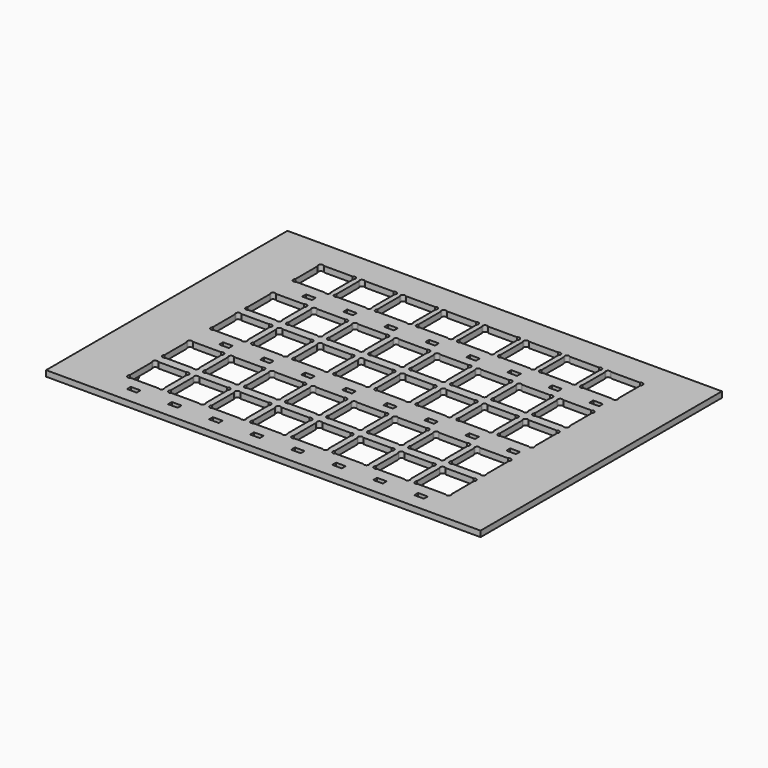
from build123d import *

# Parameters (mm, degrees)
F0_W     = 45
F0_H     = 31.25
F0_W_2   = 1
F0_H_2   = 0.5
F0_R     = 1.5
F0_W_3   = 0.6
F0_H_3   = 10
F1_DEPTH = 0.6
F2_DEPTH = 1
F3_DEPTH = 0.2


with BuildPart() as f1:
    # F0 (on Top) → F1 (new body)
    with BuildSketch(Plane.XY):
        Rectangle(F0_W, F0_H)
        with Locations((-14.820037, -13.875)):
            Rectangle(F0_W_2, F0_H_2, mode=Mode.SUBTRACT)
        with Locations((-19, -10.375)):
            Circle(F0_R, mode=Mode.SUBTRACT)
        with BuildLine():
            ThreePointArc((-13.075, -12.071447), (-13.075, -12.425), (-13.428553, -12.425))
            Line((-13.428553, -12.425), (-16.321447, -12.425))
            ThreePointArc((-16.321447, -12.425), (-16.675, -12.425), (-16.675, -12.071447))
            Line((-16.675, -12.071447), (-16.675, -9.178553))
            ThreePointArc((-16.675, -9.178553), (-16.675, -8.825), (-16.321447, -8.825))
            Line((-16.321447, -8.825), (-13.428553, -8.825))
            ThreePointArc((-13.428553, -8.825), (-13.075, -8.825), (-13.075, -9.178553))
            Line((-13.075, -9.178553), (-13.075, -12.071447))
        make_face(mode=Mode.SUBTRACT)
        with Locations((-10.570037, -13.875)):
            Rectangle(F0_W_2, F0_H_2, mode=Mode.SUBTRACT)
        with Locations((-6.320037, -13.875)):
            Rectangle(F0_W_2, F0_H_2, mode=Mode.SUBTRACT)
        with Locations((-2.070037, -13.875)):
            Rectangle(F0_W_2, F0_H_2, mode=Mode.SUBTRACT)
        with BuildLine():
            ThreePointArc((-8.825, -12.071447), (-8.825, -12.425), (-9.178553, -12.425))
            Line((-9.178553, -12.425), (-12.071447, -12.425))
            ThreePointArc((-12.071447, -12.425), (-12.425, -12.425), (-12.425, -12.071447))
            Line((-12.425, -12.071447), (-12.425, -9.178553))
            ThreePointArc((-12.425, -9.178553), (-12.425, -8.825), (-12.071447, -8.825))
            Line((-12.071447, -8.825), (-9.178553, -8.825))
            ThreePointArc((-9.178553, -8.825), (-8.825, -8.825), (-8.825, -9.178553))
            Line((-8.825, -9.178553), (-8.825, -12.071447))
        make_face(mode=Mode.SUBTRACT)
        with BuildLine():
            ThreePointArc((-4.575, -12.071447), (-4.575, -12.425), (-4.928553, -12.425))
            Line((-4.928553, -12.425), (-7.821447, -12.425))
            ThreePointArc((-7.821447, -12.425), (-8.175, -12.425), (-8.175, -12.071447))
            Line((-8.175, -12.071447), (-8.175, -9.178553))
            ThreePointArc((-8.175, -9.178553), (-8.175, -8.825), (-7.821447, -8.825))
            Line((-7.821447, -8.825), (-4.928553, -8.825))
            ThreePointArc((-4.928553, -8.825), (-4.575, -8.825), (-4.575, -9.178553))
            Line((-4.575, -9.178553), (-4.575, -12.071447))
        make_face(mode=Mode.SUBTRACT)
        with BuildLine():
            ThreePointArc((-0.325, -12.071447), (-0.325, -12.425), (-0.678553, -12.425))
            Line((-0.678553, -12.425), (-3.571447, -12.425))
            ThreePointArc((-3.571447, -12.425), (-3.925, -12.425), (-3.925, -12.071447))
            Line((-3.925, -12.071447), (-3.925, -9.178553))
            ThreePointArc((-3.925, -9.178553), (-3.925, -8.825), (-3.571447, -8.825))
            Line((-3.571447, -8.825), (-0.678553, -8.825))
            ThreePointArc((-0.678553, -8.825), (-0.325, -8.825), (-0.325, -9.178553))
            Line((-0.325, -9.178553), (-0.325, -12.071447))
        make_face(mode=Mode.SUBTRACT)
        with BuildLine():
            Line((-16.321447, -4.325), (-13.428553, -4.325))
            ThreePointArc((-13.428553, -4.325), (-13.075, -4.325), (-13.075, -4.678553))
            Line((-13.075, -4.678553), (-13.075, -7.571447))
            ThreePointArc((-13.075, -7.571447), (-13.075, -7.925), (-13.428553, -7.925))
            Line((-13.428553, -7.925), (-16.321447, -7.925))
            ThreePointArc((-16.321447, -7.925), (-16.675, -7.925), (-16.675, -7.571447))
            Line((-16.675, -7.571447), (-16.675, -4.678553))
            ThreePointArc((-16.675, -4.678553), (-16.675, -4.325), (-16.321447, -4.325))
        make_face(mode=Mode.SUBTRACT)
        with Locations((-13.875, -3.125)):
            Rectangle(F0_W_2, F0_H_2, mode=Mode.SUBTRACT)
        with BuildLine():
            ThreePointArc((-12.071447, -7.925), (-12.425, -7.925), (-12.425, -7.571447))
            Line((-12.425, -7.571447), (-12.425, -4.678553))
            ThreePointArc((-12.425, -4.678553), (-12.425, -4.325), (-12.071447, -4.325))
            Line((-12.071447, -4.325), (-9.178553, -4.325))
            ThreePointArc((-9.178553, -4.325), (-8.825, -4.325), (-8.825, -4.678553))
            Line((-8.825, -4.678553), (-8.825, -7.571447))
            ThreePointArc((-8.825, -7.571447), (-8.825, -7.925), (-9.178553, -7.925))
            Line((-9.178553, -7.925), (-12.071447, -7.925))
        make_face(mode=Mode.SUBTRACT)
        with BuildLine():
            Line((-4.575, -4.678553), (-4.575, -7.571447))
            ThreePointArc((-4.575, -7.571447), (-4.575, -7.925), (-4.928553, -7.925))
            Line((-4.928553, -7.925), (-7.821447, -7.925))
            ThreePointArc((-7.821447, -7.925), (-8.175, -7.925), (-8.175, -7.571447))
            Line((-8.175, -7.571447), (-8.175, -4.678553))
            ThreePointArc((-8.175, -4.678553), (-8.175, -4.325), (-7.821447, -4.325))
            Line((-7.821447, -4.325), (-4.928553, -4.325))
            ThreePointArc((-4.928553, -4.325), (-4.575, -4.325), (-4.575, -4.678553))
        make_face(mode=Mode.SUBTRACT)
        with BuildLine():
            ThreePointArc((-3.571447, -7.925), (-3.925, -7.925), (-3.925, -7.571447))
            Line((-3.925, -7.571447), (-3.925, -4.678553))
            ThreePointArc((-3.925, -4.678553), (-3.925, -4.325), (-3.571447, -4.325))
            Line((-3.571447, -4.325), (-0.678553, -4.325))
            ThreePointArc((-0.678553, -4.325), (-0.325, -4.325), (-0.325, -4.678553))
            Line((-0.325, -4.678553), (-0.325, -7.571447))
            ThreePointArc((-0.325, -7.571447), (-0.325, -7.925), (-0.678553, -7.925))
            Line((-0.678553, -7.925), (-3.571447, -7.925))
        make_face(mode=Mode.SUBTRACT)
        with Locations((-9.625, -3.125)):
            Rectangle(F0_W_2, F0_H_2, mode=Mode.SUBTRACT)
        with Locations((-5.375, -3.125)):
            Rectangle(F0_W_2, F0_H_2, mode=Mode.SUBTRACT)
        with Locations((-1.125, -3.125)):
            Rectangle(F0_W_2, F0_H_2, mode=Mode.SUBTRACT)
        with Locations((2.179963, -13.875)):
            Rectangle(F0_W_2, F0_H_2, mode=Mode.SUBTRACT)
        with Locations((6.429963, -13.875)):
            Rectangle(F0_W_2, F0_H_2, mode=Mode.SUBTRACT)
        with Locations((10.679963, -13.875)):
            Rectangle(F0_W_2, F0_H_2, mode=Mode.SUBTRACT)
        with BuildLine():
            ThreePointArc((3.925, -12.071447), (3.925, -12.425), (3.571447, -12.425))
            Line((3.571447, -12.425), (0.678553, -12.425))
            ThreePointArc((0.678553, -12.425), (0.325, -12.425), (0.325, -12.071447))
            Line((0.325, -12.071447), (0.325, -9.178553))
            ThreePointArc((0.325, -9.178553), (0.325, -8.825), (0.678553, -8.825))
            Line((0.678553, -8.825), (3.571447, -8.825))
            ThreePointArc((3.571447, -8.825), (3.925, -8.825), (3.925, -9.178553))
            Line((3.925, -9.178553), (3.925, -12.071447))
        make_face(mode=Mode.SUBTRACT)
        with BuildLine():
            Line((8.175, -9.178553), (8.175, -12.071447))
            ThreePointArc((8.175, -12.071447), (8.175, -12.425), (7.821447, -12.425))
            Line((7.821447, -12.425), (4.928553, -12.425))
            ThreePointArc((4.928553, -12.425), (4.575, -12.425), (4.575, -12.071447))
            Line((4.575, -12.071447), (4.575, -9.178553))
            ThreePointArc((4.575, -9.178553), (4.575, -8.825), (4.928553, -8.825))
            Line((4.928553, -8.825), (7.821447, -8.825))
            ThreePointArc((7.821447, -8.825), (8.175, -8.825), (8.175, -9.178553))
        make_face(mode=Mode.SUBTRACT)
        with BuildLine():
            ThreePointArc((12.425, -12.071447), (12.425, -12.425), (12.071447, -12.425))
            Line((12.071447, -12.425), (9.178553, -12.425))
            ThreePointArc((9.178553, -12.425), (8.825, -12.425), (8.825, -12.071447))
            Line((8.825, -12.071447), (8.825, -9.178553))
            ThreePointArc((8.825, -9.178553), (8.825, -8.825), (9.178553, -8.825))
            Line((9.178553, -8.825), (12.071447, -8.825))
            ThreePointArc((12.071447, -8.825), (12.425, -8.825), (12.425, -9.178553))
            Line((12.425, -9.178553), (12.425, -12.071447))
        make_face(mode=Mode.SUBTRACT)
        with Locations((14.929963, -13.875)):
            Rectangle(F0_W_2, F0_H_2, mode=Mode.SUBTRACT)
        with BuildLine():
            ThreePointArc((16.675, -12.071447), (16.675, -12.425), (16.321447, -12.425))
            Line((16.321447, -12.425), (13.428553, -12.425))
            ThreePointArc((13.428553, -12.425), (13.075, -12.425), (13.075, -12.071447))
            Line((13.075, -12.071447), (13.075, -9.178553))
            ThreePointArc((13.075, -9.178553), (13.075, -8.825), (13.428553, -8.825))
            Line((13.428553, -8.825), (16.321447, -8.825))
            ThreePointArc((16.321447, -8.825), (16.675, -8.825), (16.675, -9.178553))
            Line((16.675, -9.178553), (16.675, -12.071447))
        make_face(mode=Mode.SUBTRACT)
        with Locations((19, -10.375)):
            Circle(F0_R, mode=Mode.SUBTRACT)
        with BuildLine():
            Line((3.925, -4.678553), (3.925, -7.571447))
            ThreePointArc((3.925, -7.571447), (3.925, -7.925), (3.571447, -7.925))
            Line((3.571447, -7.925), (0.678553, -7.925))
            ThreePointArc((0.678553, -7.925), (0.325, -7.925), (0.325, -7.571447))
            Line((0.325, -7.571447), (0.325, -4.678553))
            ThreePointArc((0.325, -4.678553), (0.325, -4.325), (0.678553, -4.325))
            Line((0.678553, -4.325), (3.571447, -4.325))
            ThreePointArc((3.571447, -4.325), (3.925, -4.325), (3.925, -4.678553))
        make_face(mode=Mode.SUBTRACT)
        with BuildLine():
            Line((8.175, -4.678553), (8.175, -7.571447))
            ThreePointArc((8.175, -7.571447), (8.175, -7.925), (7.821447, -7.925))
            Line((7.821447, -7.925), (4.928553, -7.925))
            ThreePointArc((4.928553, -7.925), (4.575, -7.925), (4.575, -7.571447))
            Line((4.575, -7.571447), (4.575, -4.678553))
            ThreePointArc((4.575, -4.678553), (4.575, -4.325), (4.928553, -4.325))
            Line((4.928553, -4.325), (7.821447, -4.325))
            ThreePointArc((7.821447, -4.325), (8.175, -4.325), (8.175, -4.678553))
        make_face(mode=Mode.SUBTRACT)
        with BuildLine():
            Line((9.178553, -4.325), (12.071447, -4.325))
            ThreePointArc((12.071447, -4.325), (12.425, -4.325), (12.425, -4.678553))
            Line((12.425, -4.678553), (12.425, -7.571447))
            ThreePointArc((12.425, -7.571447), (12.425, -7.925), (12.071447, -7.925))
            Line((12.071447, -7.925), (9.178553, -7.925))
            ThreePointArc((9.178553, -7.925), (8.825, -7.925), (8.825, -7.571447))
            Line((8.825, -7.571447), (8.825, -4.678553))
            ThreePointArc((8.825, -4.678553), (8.825, -4.325), (9.178553, -4.325))
        make_face(mode=Mode.SUBTRACT)
        with Locations((3.125, -3.125)):
            Rectangle(F0_W_2, F0_H_2, mode=Mode.SUBTRACT)
        with Locations((7.375, -3.125)):
            Rectangle(F0_W_2, F0_H_2, mode=Mode.SUBTRACT)
        with BuildLine():
            ThreePointArc((16.675, -7.571447), (16.675, -7.925), (16.321447, -7.925))
            Line((16.321447, -7.925), (13.428553, -7.925))
            ThreePointArc((13.428553, -7.925), (13.075, -7.925), (13.075, -7.571447))
            Line((13.075, -7.571447), (13.075, -4.678553))
            ThreePointArc((13.075, -4.678553), (13.075, -4.325), (13.428553, -4.325))
            Line((13.428553, -4.325), (16.321447, -4.325))
            ThreePointArc((16.321447, -4.325), (16.675, -4.325), (16.675, -4.678553))
            Line((16.675, -4.678553), (16.675, -7.571447))
        make_face(mode=Mode.SUBTRACT)
        with Locations((11.625, -3.125)):
            Rectangle(F0_W_2, F0_H_2, mode=Mode.SUBTRACT)
        with Locations((15.875, -3.125)):
            Rectangle(F0_W_2, F0_H_2, mode=Mode.SUBTRACT)
        with Locations((-19, 0)):
            Rectangle(F0_W_3, F0_H_3, mode=Mode.SUBTRACT)
        with BuildLine():
            ThreePointArc((-13.075, -1.321447), (-13.075, -1.675), (-13.428553, -1.675))
            Line((-13.428553, -1.675), (-16.321447, -1.675))
            ThreePointArc((-16.321447, -1.675), (-16.675, -1.675), (-16.675, -1.321447))
            Line((-16.675, -1.321447), (-16.675, 1.571447))
            ThreePointArc((-16.675, 1.571447), (-16.675, 1.925), (-16.321447, 1.925))
            Line((-16.321447, 1.925), (-13.428553, 1.925))
            ThreePointArc((-13.428553, 1.925), (-13.075, 1.925), (-13.075, 1.571447))
            Line((-13.075, 1.571447), (-13.075, -1.321447))
        make_face(mode=Mode.SUBTRACT)
        with BuildLine():
            ThreePointArc((-13.075, 3.178553), (-13.075, 2.825), (-13.428553, 2.825))
            Line((-13.428553, 2.825), (-16.321447, 2.825))
            ThreePointArc((-16.321447, 2.825), (-16.675, 2.825), (-16.675, 3.178553))
            Line((-16.675, 3.178553), (-16.675, 6.071447))
            ThreePointArc((-16.675, 6.071447), (-16.675, 6.425), (-16.321447, 6.425))
            Line((-16.321447, 6.425), (-13.428553, 6.425))
            ThreePointArc((-13.428553, 6.425), (-13.075, 6.425), (-13.075, 6.071447))
            Line((-13.075, 6.071447), (-13.075, 3.178553))
        make_face(mode=Mode.SUBTRACT)
        with Locations((-13.875, 7.625)):
            Rectangle(F0_W_2, F0_H_2, mode=Mode.SUBTRACT)
        with BuildLine():
            ThreePointArc((-8.825, -1.321447), (-8.825, -1.675), (-9.178553, -1.675))
            Line((-9.178553, -1.675), (-12.071447, -1.675))
            ThreePointArc((-12.071447, -1.675), (-12.425, -1.675), (-12.425, -1.321447))
            Line((-12.425, -1.321447), (-12.425, 1.571447))
            ThreePointArc((-12.425, 1.571447), (-12.425, 1.925), (-12.071447, 1.925))
            Line((-12.071447, 1.925), (-9.178553, 1.925))
            ThreePointArc((-9.178553, 1.925), (-8.825, 1.925), (-8.825, 1.571447))
            Line((-8.825, 1.571447), (-8.825, -1.321447))
        make_face(mode=Mode.SUBTRACT)
        with BuildLine():
            ThreePointArc((-4.575, -1.321447), (-4.575, -1.675), (-4.928553, -1.675))
            Line((-4.928553, -1.675), (-7.821447, -1.675))
            ThreePointArc((-7.821447, -1.675), (-8.175, -1.675), (-8.175, -1.321447))
            Line((-8.175, -1.321447), (-8.175, 1.571447))
            ThreePointArc((-8.175, 1.571447), (-8.175, 1.925), (-7.821447, 1.925))
            Line((-7.821447, 1.925), (-4.928553, 1.925))
            ThreePointArc((-4.928553, 1.925), (-4.575, 1.925), (-4.575, 1.571447))
            Line((-4.575, 1.571447), (-4.575, -1.321447))
        make_face(mode=Mode.SUBTRACT)
        with BuildLine():
            ThreePointArc((-0.325, -1.321447), (-0.325, -1.675), (-0.678553, -1.675))
            Line((-0.678553, -1.675), (-3.571447, -1.675))
            ThreePointArc((-3.571447, -1.675), (-3.925, -1.675), (-3.925, -1.321447))
            Line((-3.925, -1.321447), (-3.925, 1.571447))
            ThreePointArc((-3.925, 1.571447), (-3.925, 1.925), (-3.571447, 1.925))
            Line((-3.571447, 1.925), (-0.678553, 1.925))
            ThreePointArc((-0.678553, 1.925), (-0.325, 1.925), (-0.325, 1.571447))
            Line((-0.325, 1.571447), (-0.325, -1.321447))
        make_face(mode=Mode.SUBTRACT)
        with BuildLine():
            ThreePointArc((-12.071447, 2.825), (-12.425, 2.825), (-12.425, 3.178553))
            Line((-12.425, 3.178553), (-12.425, 6.071447))
            ThreePointArc((-12.425, 6.071447), (-12.425, 6.425), (-12.071447, 6.425))
            Line((-12.071447, 6.425), (-9.178553, 6.425))
            ThreePointArc((-9.178553, 6.425), (-8.825, 6.425), (-8.825, 6.071447))
            Line((-8.825, 6.071447), (-8.825, 3.178553))
            ThreePointArc((-8.825, 3.178553), (-8.825, 2.825), (-9.178553, 2.825))
            Line((-9.178553, 2.825), (-12.071447, 2.825))
        make_face(mode=Mode.SUBTRACT)
        with BuildLine():
            ThreePointArc((-4.575, 3.178553), (-4.575, 2.825), (-4.928553, 2.825))
            Line((-4.928553, 2.825), (-7.821447, 2.825))
            ThreePointArc((-7.821447, 2.825), (-8.175, 2.825), (-8.175, 3.178553))
            Line((-8.175, 3.178553), (-8.175, 6.071447))
            ThreePointArc((-8.175, 6.071447), (-8.175, 6.425), (-7.821447, 6.425))
            Line((-7.821447, 6.425), (-4.928553, 6.425))
            ThreePointArc((-4.928553, 6.425), (-4.575, 6.425), (-4.575, 6.071447))
            Line((-4.575, 6.071447), (-4.575, 3.178553))
        make_face(mode=Mode.SUBTRACT)
        with Locations((-9.625, 7.625)):
            Rectangle(F0_W_2, F0_H_2, mode=Mode.SUBTRACT)
        with BuildLine():
            ThreePointArc((-0.325, 3.178553), (-0.325, 2.825), (-0.678553, 2.825))
            Line((-0.678553, 2.825), (-3.571447, 2.825))
            ThreePointArc((-3.571447, 2.825), (-3.925, 2.825), (-3.925, 3.178553))
            Line((-3.925, 3.178553), (-3.925, 6.071447))
            ThreePointArc((-3.925, 6.071447), (-3.925, 6.425), (-3.571447, 6.425))
            Line((-3.571447, 6.425), (-0.678553, 6.425))
            ThreePointArc((-0.678553, 6.425), (-0.325, 6.425), (-0.325, 6.071447))
            Line((-0.325, 6.071447), (-0.325, 3.178553))
        make_face(mode=Mode.SUBTRACT)
        with Locations((-5.375, 7.625)):
            Rectangle(F0_W_2, F0_H_2, mode=Mode.SUBTRACT)
        with Locations((-1.125, 7.625)):
            Rectangle(F0_W_2, F0_H_2, mode=Mode.SUBTRACT)
        with Locations((-19, 10.375)):
            Circle(F0_R, mode=Mode.SUBTRACT)
        with BuildLine():
            ThreePointArc((-13.025, 9.423677), (-13.029843, 9.070157), (-13.383363, 9.075))
            Line((-13.383363, 9.075), (-16.366637, 9.075))
            ThreePointArc((-16.366637, 9.075), (-16.720157, 9.070157), (-16.725, 9.423677))
            Line((-16.725, 9.423677), (-16.725, 12.326323))
            ThreePointArc((-16.725, 12.326323), (-16.720157, 12.679843), (-16.366637, 12.675))
            Line((-16.366637, 12.675), (-13.383363, 12.675))
            ThreePointArc((-13.383363, 12.675), (-13.029843, 12.679843), (-13.025, 12.326323))
            Line((-13.025, 12.326323), (-13.025, 9.423677))
        make_face(mode=Mode.SUBTRACT)
        with BuildLine():
            Line((-8.775, 12.326323), (-8.775, 9.423677))
            ThreePointArc((-8.775, 9.423677), (-8.779843, 9.070157), (-9.133363, 9.075))
            Line((-9.133363, 9.075), (-12.116637, 9.075))
            ThreePointArc((-12.116637, 9.075), (-12.470157, 9.070157), (-12.475, 9.423677))
            Line((-12.475, 9.423677), (-12.475, 12.326323))
            ThreePointArc((-12.475, 12.326323), (-12.470157, 12.679843), (-12.116637, 12.675))
            Line((-12.116637, 12.675), (-9.133363, 12.675))
            ThreePointArc((-9.133363, 12.675), (-8.779843, 12.679843), (-8.775, 12.326323))
        make_face(mode=Mode.SUBTRACT)
        with BuildLine():
            Line((-4.525, 12.326323), (-4.525, 9.423677))
            ThreePointArc((-4.525, 9.423677), (-4.529843, 9.070157), (-4.883363, 9.075))
            Line((-4.883363, 9.075), (-7.866637, 9.075))
            ThreePointArc((-7.866637, 9.075), (-8.220157, 9.070157), (-8.225, 9.423677))
            Line((-8.225, 9.423677), (-8.225, 12.326323))
            ThreePointArc((-8.225, 12.326323), (-8.220157, 12.679843), (-7.866637, 12.675))
            Line((-7.866637, 12.675), (-4.883363, 12.675))
            ThreePointArc((-4.883363, 12.675), (-4.529843, 12.679843), (-4.525, 12.326323))
        make_face(mode=Mode.SUBTRACT)
        with BuildLine():
            Line((-0.275, 12.326323), (-0.275, 9.423677))
            ThreePointArc((-0.275, 9.423677), (-0.279843, 9.070157), (-0.633363, 9.075))
            Line((-0.633363, 9.075), (-3.616637, 9.075))
            ThreePointArc((-3.616637, 9.075), (-3.970157, 9.070157), (-3.975, 9.423677))
            Line((-3.975, 9.423677), (-3.975, 12.326323))
            ThreePointArc((-3.975, 12.326323), (-3.970157, 12.679843), (-3.616637, 12.675))
            Line((-3.616637, 12.675), (-0.633363, 12.675))
            ThreePointArc((-0.633363, 12.675), (-0.279843, 12.679843), (-0.275, 12.326323))
        make_face(mode=Mode.SUBTRACT)
        with BuildLine():
            ThreePointArc((3.925, -1.321447), (3.925, -1.675), (3.571447, -1.675))
            Line((3.571447, -1.675), (0.678553, -1.675))
            ThreePointArc((0.678553, -1.675), (0.325, -1.675), (0.325, -1.321447))
            Line((0.325, -1.321447), (0.325, 1.571447))
            ThreePointArc((0.325, 1.571447), (0.325, 1.925), (0.678553, 1.925))
            Line((0.678553, 1.925), (3.571447, 1.925))
            ThreePointArc((3.571447, 1.925), (3.925, 1.925), (3.925, 1.571447))
            Line((3.925, 1.571447), (3.925, -1.321447))
        make_face(mode=Mode.SUBTRACT)
        with BuildLine():
            Line((8.175, 1.571447), (8.175, -1.321447))
            ThreePointArc((8.175, -1.321447), (8.175, -1.675), (7.821447, -1.675))
            Line((7.821447, -1.675), (4.928553, -1.675))
            ThreePointArc((4.928553, -1.675), (4.575, -1.675), (4.575, -1.321447))
            Line((4.575, -1.321447), (4.575, 1.571447))
            ThreePointArc((4.575, 1.571447), (4.575, 1.925), (4.928553, 1.925))
            Line((4.928553, 1.925), (7.821447, 1.925))
            ThreePointArc((7.821447, 1.925), (8.175, 1.925), (8.175, 1.571447))
        make_face(mode=Mode.SUBTRACT)
        with BuildLine():
            ThreePointArc((12.425, -1.321447), (12.425, -1.675), (12.071447, -1.675))
            Line((12.071447, -1.675), (9.178553, -1.675))
            ThreePointArc((9.178553, -1.675), (8.825, -1.675), (8.825, -1.321447))
            Line((8.825, -1.321447), (8.825, 1.571447))
            ThreePointArc((8.825, 1.571447), (8.825, 1.925), (9.178553, 1.925))
            Line((9.178553, 1.925), (12.071447, 1.925))
            ThreePointArc((12.071447, 1.925), (12.425, 1.925), (12.425, 1.571447))
            Line((12.425, 1.571447), (12.425, -1.321447))
        make_face(mode=Mode.SUBTRACT)
        with BuildLine():
            Line((0.678553, 6.425), (3.571447, 6.425))
            ThreePointArc((3.571447, 6.425), (3.925, 6.425), (3.925, 6.071447))
            Line((3.925, 6.071447), (3.925, 3.178553))
            ThreePointArc((3.925, 3.178553), (3.925, 2.825), (3.571447, 2.825))
            Line((3.571447, 2.825), (0.678553, 2.825))
            ThreePointArc((0.678553, 2.825), (0.325, 2.825), (0.325, 3.178553))
            Line((0.325, 3.178553), (0.325, 6.071447))
            ThreePointArc((0.325, 6.071447), (0.325, 6.425), (0.678553, 6.425))
        make_face(mode=Mode.SUBTRACT)
        with Locations((3.125, 7.625)):
            Rectangle(F0_W_2, F0_H_2, mode=Mode.SUBTRACT)
        with BuildLine():
            Line((4.928553, 6.425), (7.821447, 6.425))
            ThreePointArc((7.821447, 6.425), (8.175, 6.425), (8.175, 6.071447))
            Line((8.175, 6.071447), (8.175, 3.178553))
            ThreePointArc((8.175, 3.178553), (8.175, 2.825), (7.821447, 2.825))
            Line((7.821447, 2.825), (4.928553, 2.825))
            ThreePointArc((4.928553, 2.825), (4.575, 2.825), (4.575, 3.178553))
            Line((4.575, 3.178553), (4.575, 6.071447))
            ThreePointArc((4.575, 6.071447), (4.575, 6.425), (4.928553, 6.425))
        make_face(mode=Mode.SUBTRACT)
        with BuildLine():
            Line((9.178553, 6.425), (12.071447, 6.425))
            ThreePointArc((12.071447, 6.425), (12.425, 6.425), (12.425, 6.071447))
            Line((12.425, 6.071447), (12.425, 3.178553))
            ThreePointArc((12.425, 3.178553), (12.425, 2.825), (12.071447, 2.825))
            Line((12.071447, 2.825), (9.178553, 2.825))
            ThreePointArc((9.178553, 2.825), (8.825, 2.825), (8.825, 3.178553))
            Line((8.825, 3.178553), (8.825, 6.071447))
            ThreePointArc((8.825, 6.071447), (8.825, 6.425), (9.178553, 6.425))
        make_face(mode=Mode.SUBTRACT)
        with Locations((7.375, 7.625)):
            Rectangle(F0_W_2, F0_H_2, mode=Mode.SUBTRACT)
        with BuildLine():
            ThreePointArc((16.675, -1.321447), (16.675, -1.675), (16.321447, -1.675))
            Line((16.321447, -1.675), (13.428553, -1.675))
            ThreePointArc((13.428553, -1.675), (13.075, -1.675), (13.075, -1.321447))
            Line((13.075, -1.321447), (13.075, 1.571447))
            ThreePointArc((13.075, 1.571447), (13.075, 1.925), (13.428553, 1.925))
            Line((13.428553, 1.925), (16.321447, 1.925))
            ThreePointArc((16.321447, 1.925), (16.675, 1.925), (16.675, 1.571447))
            Line((16.675, 1.571447), (16.675, -1.321447))
        make_face(mode=Mode.SUBTRACT)
        with Locations((19, 0)):
            Rectangle(F0_W_3, F0_H_3, mode=Mode.SUBTRACT)
        with BuildLine():
            Line((13.428553, 6.425), (16.321447, 6.425))
            ThreePointArc((16.321447, 6.425), (16.675, 6.425), (16.675, 6.071447))
            Line((16.675, 6.071447), (16.675, 3.178553))
            ThreePointArc((16.675, 3.178553), (16.675, 2.825), (16.321447, 2.825))
            Line((16.321447, 2.825), (13.428553, 2.825))
            ThreePointArc((13.428553, 2.825), (13.075, 2.825), (13.075, 3.178553))
            Line((13.075, 3.178553), (13.075, 6.071447))
            ThreePointArc((13.075, 6.071447), (13.075, 6.425), (13.428553, 6.425))
        make_face(mode=Mode.SUBTRACT)
        with Locations((11.625, 7.625)):
            Rectangle(F0_W_2, F0_H_2, mode=Mode.SUBTRACT)
        with Locations((15.875, 7.625)):
            Rectangle(F0_W_2, F0_H_2, mode=Mode.SUBTRACT)
        with BuildLine():
            Line((3.975, 12.326323), (3.975, 9.423677))
            ThreePointArc((3.975, 9.423677), (3.970157, 9.070157), (3.616637, 9.075))
            Line((3.616637, 9.075), (0.633363, 9.075))
            ThreePointArc((0.633363, 9.075), (0.279843, 9.070157), (0.275, 9.423677))
            Line((0.275, 9.423677), (0.275, 12.326323))
            ThreePointArc((0.275, 12.326323), (0.279843, 12.679843), (0.633363, 12.675))
            Line((0.633363, 12.675), (3.616637, 12.675))
            ThreePointArc((3.616637, 12.675), (3.970157, 12.679843), (3.975, 12.326323))
        make_face(mode=Mode.SUBTRACT)
        with BuildLine():
            Line((8.225, 12.326323), (8.225, 9.423677))
            ThreePointArc((8.225, 9.423677), (8.220157, 9.070157), (7.866637, 9.075))
            Line((7.866637, 9.075), (4.883363, 9.075))
            ThreePointArc((4.883363, 9.075), (4.529843, 9.070157), (4.525, 9.423677))
            Line((4.525, 9.423677), (4.525, 12.326323))
            ThreePointArc((4.525, 12.326323), (4.529843, 12.679843), (4.883363, 12.675))
            Line((4.883363, 12.675), (7.866637, 12.675))
            ThreePointArc((7.866637, 12.675), (8.220157, 12.679843), (8.225, 12.326323))
        make_face(mode=Mode.SUBTRACT)
        with BuildLine():
            Line((12.475, 12.326323), (12.475, 9.423677))
            ThreePointArc((12.475, 9.423677), (12.470157, 9.070157), (12.116637, 9.075))
            Line((12.116637, 9.075), (9.133363, 9.075))
            ThreePointArc((9.133363, 9.075), (8.779843, 9.070157), (8.775, 9.423677))
            Line((8.775, 9.423677), (8.775, 12.326323))
            ThreePointArc((8.775, 12.326323), (8.779843, 12.679843), (9.133363, 12.675))
            Line((9.133363, 12.675), (12.116637, 12.675))
            ThreePointArc((12.116637, 12.675), (12.470157, 12.679843), (12.475, 12.326323))
        make_face(mode=Mode.SUBTRACT)
        with BuildLine():
            Line((16.725, 12.326323), (16.725, 9.423677))
            ThreePointArc((16.725, 9.423677), (16.720157, 9.070157), (16.366637, 9.075))
            Line((16.366637, 9.075), (13.383363, 9.075))
            ThreePointArc((13.383363, 9.075), (13.029843, 9.070157), (13.025, 9.423677))
            Line((13.025, 9.423677), (13.025, 12.326323))
            ThreePointArc((13.025, 12.326323), (13.029843, 12.679843), (13.383363, 12.675))
            Line((13.383363, 12.675), (16.366637, 12.675))
            ThreePointArc((16.366637, 12.675), (16.720157, 12.679843), (16.725, 12.326323))
        make_face(mode=Mode.SUBTRACT)
        with Locations((19, 10.375)):
            Circle(F0_R, mode=Mode.SUBTRACT)
        with Locations((19, 10.375)):
            Circle(F0_R)
        with Locations((19, -10.375)):
            Circle(F0_R)
        with Locations((-19, -10.375)):
            Circle(F0_R)
        with Locations((-19, 10.375)):
            Circle(F0_R)
        with Locations((19, 0)):
            Rectangle(F0_W_3, F0_H_3)
        with Locations((-19, 0)):
            Rectangle(F0_W_3, F0_H_3)
    extrude(amount=F1_DEPTH)

    # F0 (on Top) → F2 (join)
    with BuildSketch(Plane.XY):
        with Locations((-19, 10.375)):
            Circle(F0_R)
        with Locations((-19, -10.375)):
            Circle(F0_R)
        with Locations((19, -10.375)):
            Circle(F0_R)
        with Locations((19, 10.375)):
            Circle(F0_R)
    extrude(amount=-F2_DEPTH)

    # F0 (on Top) → F3 (join)
    with BuildSketch(Plane.XY):
        with Locations((-19, 0)):
            Rectangle(F0_W_3, F0_H_3)
        with Locations((19, 0)):
            Rectangle(F0_W_3, F0_H_3)
    extrude(amount=-F3_DEPTH)


solid = f1.part
